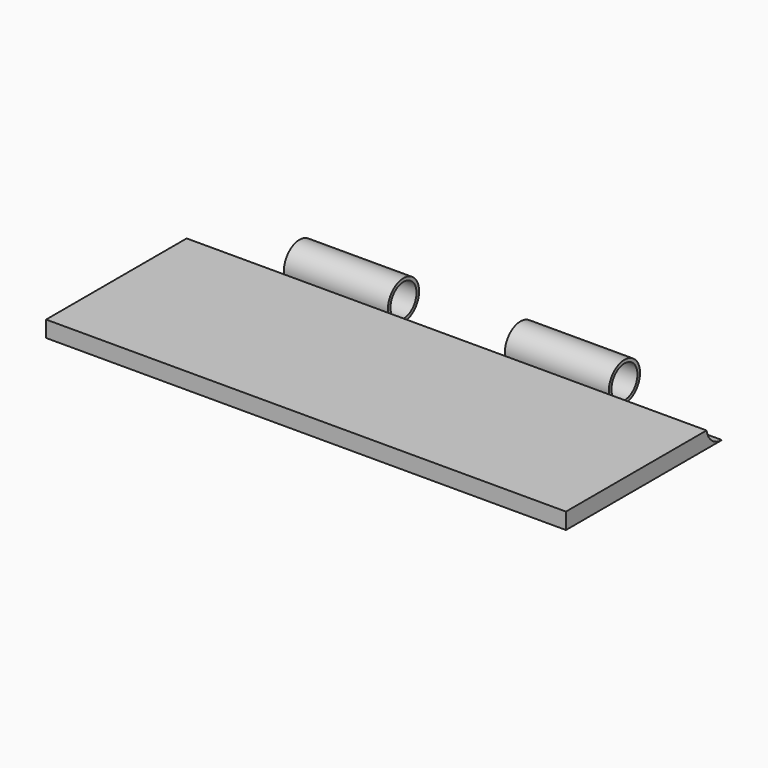
from build123d import *

# Parameters (mm, degrees)
F0_W     = 101.6
F0_H     = 38.1
F1_DEPTH = 3.175
F3_DEPTH = 254
F2_R     = 3.81
F2_R_2   = 3.175
F4_DEPTH = 101.6
F5_DEPTH = 19.05
F6_START = -39.37
F6_DEPTH = 22.86
F7_START = -82.55
F7_DEPTH = 19.05


with BuildPart() as f1:
    # F0 (on Top) → F1 (new body)
    with BuildSketch(Plane.XY):
        with Locations((-50.8, -19.05)):
            Rectangle(F0_W, F0_H)
    extrude(amount=F1_DEPTH)

    # F2 (on face) → F3 (cut)
    with BuildSketch(Plane(origin=(-101.6, 0, 0), x_dir=(0, -1, 0), z_dir=(-1, 0, 0))):
        with BuildLine():
            ThreePointArc((3.7567106623, 3.175), (3.7966542918, 3.4913839483), (3.81, 3.81))
            ThreePointArc((3.81, 3.81), (-2.6940768363, 6.5040768363), (0, 0))
            Line((0, 0), (0, 0.635))
            ThreePointArc((0, 0.635), (-2.2450640303, 6.0550640303), (3.175, 3.81))
            ThreePointArc((3.175, 3.81), (3.1589222858, 3.4908840456), (3.1108519733, 3.175))
            Line((3.1108519733, 3.175), (3.7567106623, 3.175))
        make_face()
        with BuildLine():
            Line((0, 0.635), (0, 0))
            ThreePointArc((0, 0), (2.4593444248, 0.9000644337), (3.7567106623, 3.175))
            Line((3.7567106623, 3.175), (3.1108519733, 3.175))
            ThreePointArc((3.1108519733, 3.175), (2.0080463142, 1.3506555752), (0, 0.635))
        make_face()
        with BuildLine():
            Line((0, 3.175), (0, 0.635))
            ThreePointArc((0, 0.635), (2.0080463142, 1.3506555752), (3.1108519733, 3.175))
            Line((3.1108519733, 3.175), (0, 3.175))
        make_face()
    extrude(amount=-F3_DEPTH, mode=Mode.SUBTRACT)

    # F2 (on face) → F4 (join, through all)
    with BuildSketch(Plane(origin=(-101.6, 0, 0), x_dir=(0, -1, 0), z_dir=(-1, 0, 0))):
        with Locations((0, 3.81)):
            Circle(F2_R)
        with Locations((0, 3.81)):
            Circle(F2_R_2, mode=Mode.SUBTRACT)
    extrude(amount=-F4_DEPTH)

    # F2 (on face) → F5 (cut)
    with BuildSketch(Plane(origin=(-101.6, 0, 0), x_dir=(0, -1, 0), z_dir=(-1, 0, 0))):
        with Locations((0, 3.81)):
            Circle(F2_R)
        with Locations((0, 3.81)):
            Circle(F2_R_2, mode=Mode.SUBTRACT)
    extrude(amount=-F5_DEPTH, mode=Mode.SUBTRACT)

    # F2 (on face) → F6 (cut)
    with BuildSketch(Plane(origin=(-101.6, 0, 0), x_dir=(0, -1, 0), z_dir=(-1, 0, 0)).offset(F6_START)):
        with Locations((0, 3.81)):
            Circle(F2_R)
        with Locations((0, 3.81)):
            Circle(F2_R_2, mode=Mode.SUBTRACT)
    extrude(amount=-F6_DEPTH, mode=Mode.SUBTRACT)

    # F2 (on face) → F7 (cut)
    with BuildSketch(Plane(origin=(-101.6, 0, 0), x_dir=(0, -1, 0), z_dir=(-1, 0, 0)).offset(F7_START)):
        with Locations((0, 3.81)):
            Circle(F2_R)
        with Locations((0, 3.81)):
            Circle(F2_R_2, mode=Mode.SUBTRACT)
    extrude(amount=-F7_DEPTH, mode=Mode.SUBTRACT)


solid = f1.part
